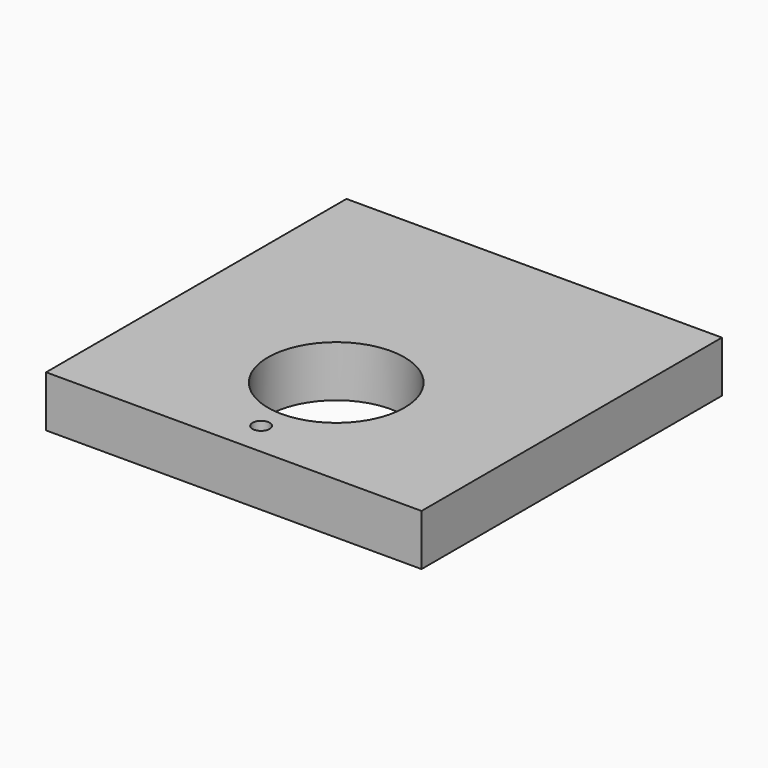
from build123d import *

# Parameters (mm, degrees)
F0_R     = 25.4
F1_DEPTH = 19.05


with BuildPart() as f1:
    # F0 (on Top) → F1 (new body)
    with BuildSketch(Plane.XY):
        with BuildLine():
            ThreePointArc((3.175, -57.15), (-2.245064, -54.904936), (0, -60.325))
            ThreePointArc((0, -60.325), (2.245064, -59.395064), (3.175, -57.15))
        make_face()
        Polygon((-69.85, 69.85), (-69.85, -69.85), (0, -69.85), (69.85, -69.85), (69.85, 69.85), align=None)
        with BuildLine():
            ThreePointArc((3.175, -57.15), (2.245064, -59.395064), (0, -60.325))
            ThreePointArc((0, -60.325), (-2.245064, -54.904936), (3.175, -57.15))
        make_face(mode=Mode.SUBTRACT)
        with Locations((0, -22.225)):
            Circle(F0_R, mode=Mode.SUBTRACT)
    extrude(amount=F1_DEPTH)


solid = f1.part
